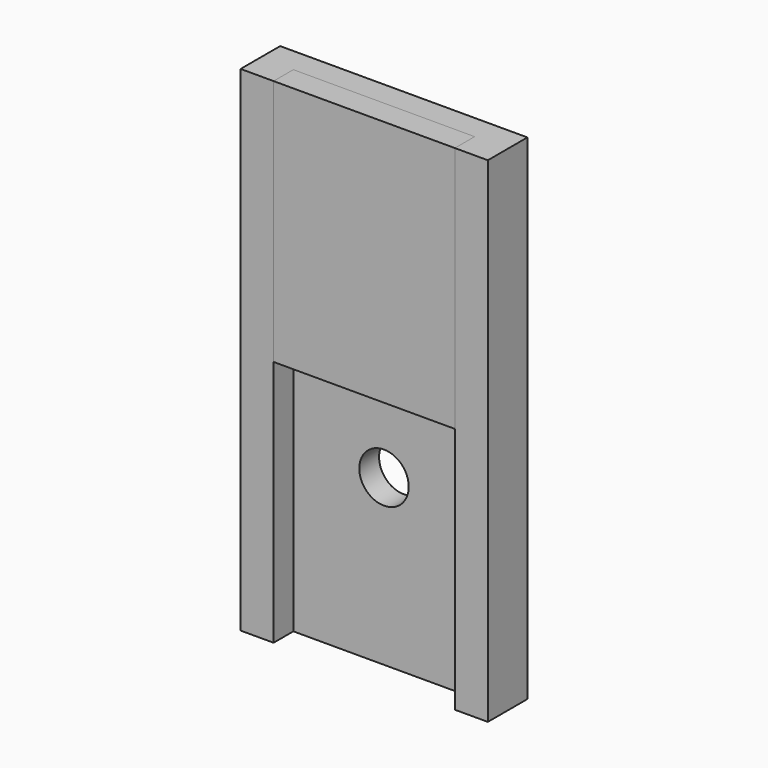
from build123d import *

# Parameters (mm, degrees)
F1_DEPTH      = 200
F1_DEPTH_BACK = 100
F2_R          = 15
F3_DEPTH      = 20
F4_W          = 110
F4_H          = 15
F5_DEPTH      = 150


with BuildPart() as f1:
    # F0 (on Top) → F1 (new body, two sides)
    with BuildSketch(Plane.XY) as f1_sk:
        Polygon((55, 15), (55, 0), (75, 0), (75, 30), (0, 30), (0, 15), align=None)
        Polygon((-55, 15), (0, 15), (0, 30), (-75, 30), (-75, 0), (-55, 0), align=None)
    extrude(amount=F1_DEPTH)
    extrude(f1_sk.sketch, amount=-F1_DEPTH_BACK)

    # F2 (on face) → F3 (cut)
    with BuildSketch(Plane.XZ.offset(-15)):
        Circle(F2_R)
    extrude(amount=-F3_DEPTH, mode=Mode.SUBTRACT)


with BuildPart() as f5:
    # F4 (on face) → F5 (new body)
    with BuildSketch(Plane.XY.offset(200)):
        with Locations((0, 7.5)):
            Rectangle(F4_W, F4_H)
    extrude(amount=-F5_DEPTH)


solid = Compound([f1.part, f5.part])
